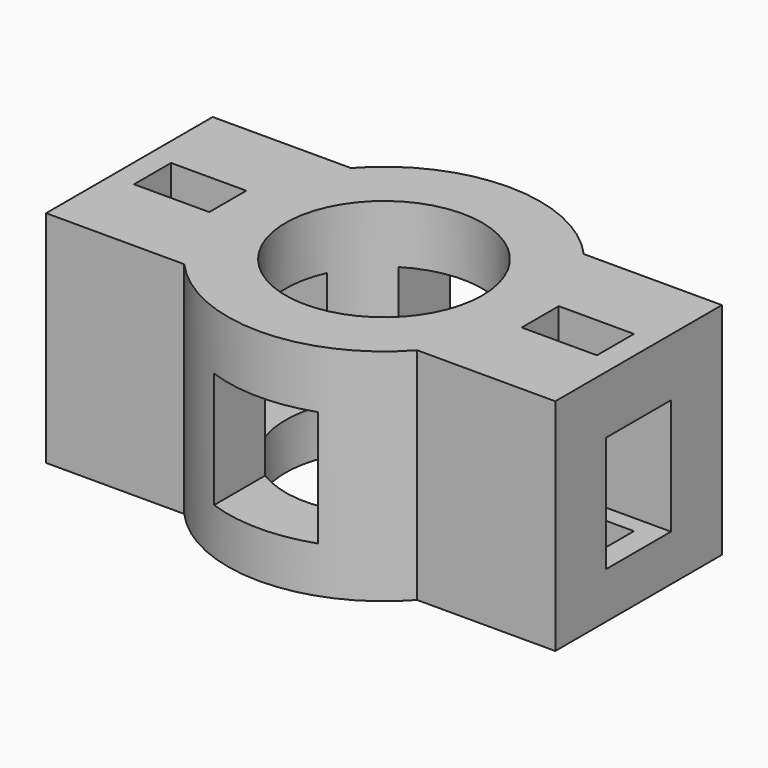
from build123d import *

# Parameters (mm, degrees)
F0_W          = 13
F0_H          = 8
F0_R          = 17
F4_DEPTH      = 38
F1_W          = 18
F1_H          = 20
F2_DEPTH      = 27.001
F2_DEPTH_BACK = 62.1113795787
F5_W          = 14
F5_H          = 20
F3_DEPTH      = 44.001
F3_DEPTH_BACK = 80.9124279767


with BuildPart() as f4:
    # F0 (on Top) → F4 (new body)
    with BuildSketch(Plane.XY):
        with BuildLine():
            Line((20.1246117975, -18), (44, -18))
            Line((44, -18), (44, 18))
            Line((44, 18), (20.1246117975, 18))
            ThreePointArc((20.1246117975, 18), (0, 27), (-20.1246117975, 18))
            Line((-20.1246117975, 18), (-44, 18))
            Line((-44, 18), (-44, -18))
            Line((-44, -18), (-20.1246117975, -18))
            ThreePointArc((-20.1246117975, -18), (0, -27), (20.1246117975, -18))
        make_face()
        with Locations((-33.5, 0)):
            Rectangle(F0_W, F0_H, mode=Mode.SUBTRACT)
        Circle(F0_R, mode=Mode.SUBTRACT)
        with Locations((33.5, 0)):
            Rectangle(F0_W, F0_H, mode=Mode.SUBTRACT)
    extrude(amount=F4_DEPTH)

    # F1 (on Front) → F2 (cut, two sides)
    with BuildSketch(Plane.XZ) as f2_sk:
        with Locations((0, 18)):
            Rectangle(F1_W, F1_H)
    extrude(amount=F2_DEPTH, mode=Mode.SUBTRACT)
    extrude(f2_sk.sketch, amount=-F2_DEPTH_BACK, mode=Mode.SUBTRACT)

    # F5 (on Right) → F3 (cut, two sides)
    with BuildSketch(Plane.YZ) as f3_sk:
        with Locations((0, 18)):
            Rectangle(F5_W, F5_H)
    extrude(amount=-F3_DEPTH, mode=Mode.SUBTRACT)
    extrude(f3_sk.sketch, amount=F3_DEPTH_BACK, mode=Mode.SUBTRACT)


solid = f4.part
